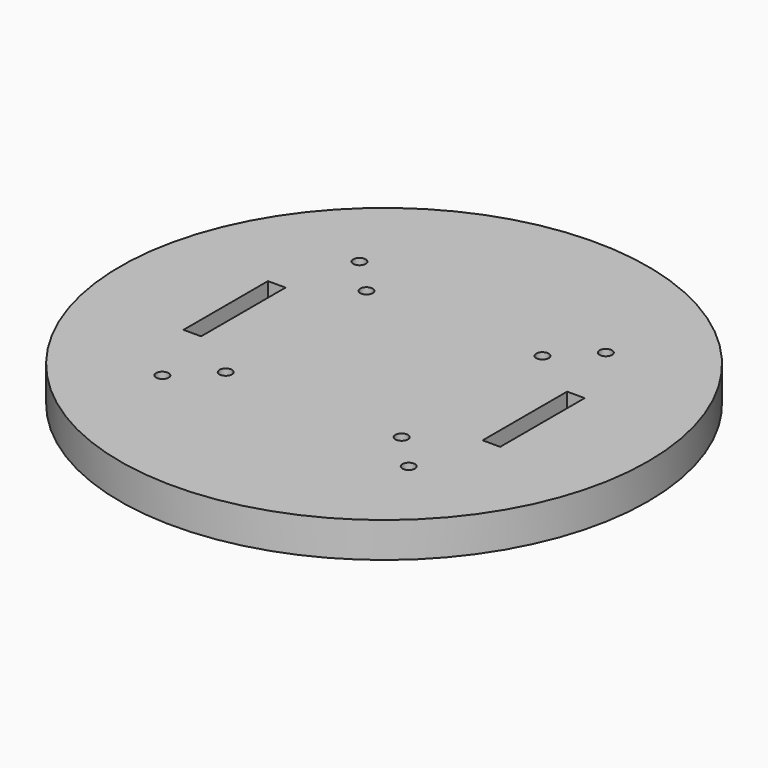
from build123d import *

# Parameters (mm, degrees)
F0_R     = 75
F1_DEPTH = 10
F2_R     = 1.775
F2_R_2   = 1.762154
F3_DEPTH = 25
F4_W     = 5
F4_H     = 30
F5_DEPTH = 25


with BuildPart() as f1:
    # F0 (on Top) → F1 (new body)
    with BuildSketch(Plane.XY):
        Circle(F0_R)
    extrude(amount=F1_DEPTH)

    # F2 (on face) → F3 (cut)
    with BuildSketch(Plane.XY.offset(10)):
        with Locations((-35, 35)):
            Circle(F2_R)
        with Locations((-25, 25)):
            Circle(F2_R_2)
        with Locations((25, 25)):
            Circle(F2_R)
        with Locations((35, 35)):
            Circle(F2_R)
        with Locations((25, -25)):
            Circle(F2_R)
        with Locations((35, -35)):
            Circle(F2_R)
        with Locations((-25, -25)):
            Circle(F2_R)
        with Locations((-35, -35)):
            Circle(F2_R)
    extrude(amount=-F3_DEPTH, mode=Mode.SUBTRACT)

    # F4 (on face) → F5 (cut)
    with BuildSketch(Plane.XY.offset(10)):
        with Locations((-42.5, 0)):
            Rectangle(F4_W, F4_H)
        with Locations((42.5, 0)):
            Rectangle(F4_W, F4_H)
    extrude(amount=-F5_DEPTH, mode=Mode.SUBTRACT)


solid = f1.part
